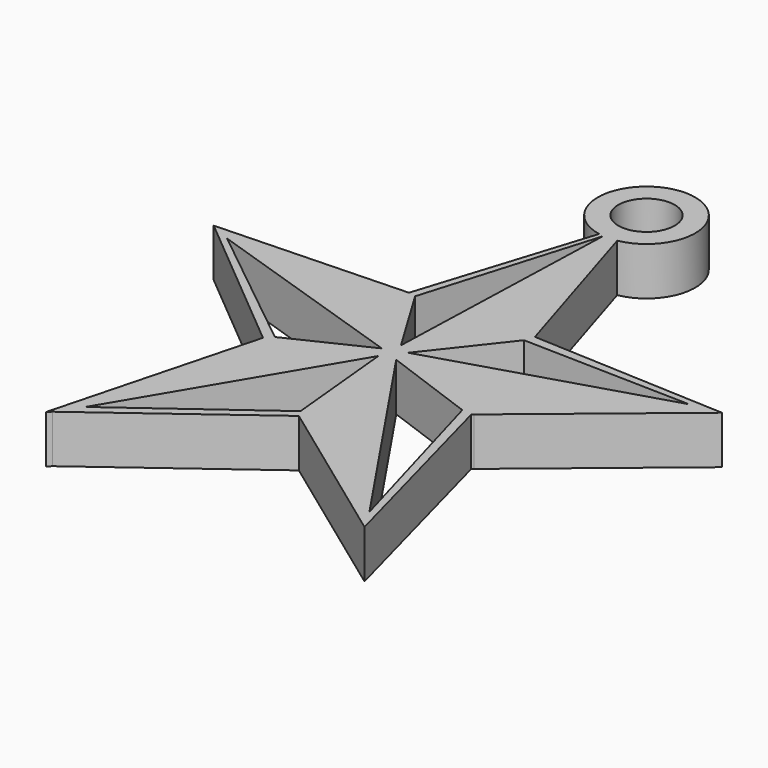
from build123d import *

# Parameters (mm, degrees)
F0_R     = 1.494135
F1_DEPTH = 2.54


with BuildPart() as f1:
    # F0 (on Top) → F1 (new body)
    with BuildSketch(Plane.XY):
        with BuildLine():
            Line((13.48222, 2.024483), (3.201543, 2.496718))
            Line((3.201543, 2.496718), (0.474253, 11.350792))
            ThreePointArc((0.474253, 11.350792), (0.005987, 16.463631), (-0.486017, 11.353022))
            Line((-0.486017, 11.353022), (-3.337723, 2.332209))
            Line((-3.337723, 2.332209), (-13.398782, 1.982259))
            Line((-13.398782, 1.982259), (-5.530131, -4.593079))
            Line((-5.530131, -4.593079), (-8.383425, -15.383421))
            Line((-8.383425, -15.383421), (-8.195174, -15.200495))
            Line((-8.195174, -15.200495), (0, -9.12891))
            Line((0, -9.12891), (8.333031, -15.200495))
            Line((8.333031, -15.200495), (5.491082, -4.593079))
            Line((5.491082, -4.593079), (5.580035, -4.494939))
            Line((5.580035, -4.494939), (13.48222, 2.024483))
        make_face()
        Polygon((-0.515748, -8.972427), (-7.396878, -14.017268), (-0.785596, -2.886029), (-0.214107, -8.758916), align=None, mode=Mode.SUBTRACT)
        Polygon((-12.247529, 1.427319), (-1.096065, -2.263094), (-5.187609, -4.228639), align=None, mode=Mode.SUBTRACT)
        Polygon((4.948679, -4.494939), (7.647161, -14.017268), (0, -2.683643), align=None, mode=Mode.SUBTRACT)
        Polygon((11.950911, 1.767228), (0, -1.88404), (3.035744, 1.982259), align=None, mode=Mode.SUBTRACT)
        Polygon((-2.941626, 2.241765), (-0.236567, 11.293307), (-0.65273, -1.555721), align=None, mode=Mode.SUBTRACT)
        with Locations((0, 13.88522)):
            Circle(F0_R, mode=Mode.SUBTRACT)
    extrude(amount=F1_DEPTH)


solid = f1.part
